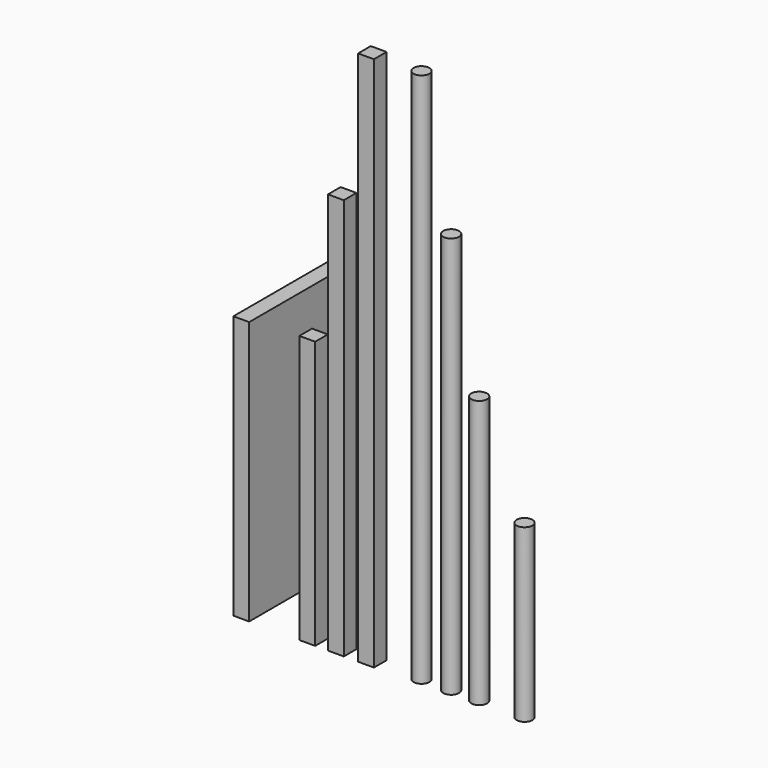
from build123d import *

# Parameters (mm, degrees)
F0_W     = 6
F0_H     = 6
F1_DEPTH = 101.6
F2_DEPTH = 152.4
F3_DEPTH = 203.2
F0_R     = 3
F4_DEPTH = 203.2
F5_DEPTH = 152.4
F6_DEPTH = 101.6
F7_DEPTH = 65
F0_H_2   = 45
F8_DEPTH = 100


with BuildPart() as f1:
    # F0 (on Top) → F1 (new body)
    with BuildSketch(Plane.XY):
        with Locations((-33.147974, 3)):
            Rectangle(F0_W, F0_H)
    extrude(amount=F1_DEPTH)


with BuildPart() as f2:
    # F0 (on Top) → F2 (new body)
    with BuildSketch(Plane.XY):
        with Locations((-22.295299, 3)):
            Rectangle(F0_W, F0_H)
    extrude(amount=F2_DEPTH)


with BuildPart() as f3:
    # F0 (on Top) → F3 (new body)
    with BuildSketch(Plane.XY):
        with Locations((-10.870221, 3)):
            Rectangle(F0_W, F0_H)
    extrude(amount=F3_DEPTH)


with BuildPart() as f4:
    # F0 (on Top) → F4 (new body)
    with BuildSketch(Plane.XY):
        with Locations((7.769686, 3)):
            Circle(F0_R)
    extrude(amount=F4_DEPTH)


with BuildPart() as f5:
    # F0 (on Top) → F5 (new body)
    with BuildSketch(Plane.XY):
        with Locations((19.036578, 3)):
            Circle(F0_R)
    extrude(amount=F5_DEPTH)


with BuildPart() as f6:
    # F0 (on Top) → F6 (new body)
    with BuildSketch(Plane.XY):
        with Locations((29.671375, 3)):
            Circle(F0_R)
    extrude(amount=F6_DEPTH)


with BuildPart() as f7:
    # F0 (on Top) → F7 (new body)
    with BuildSketch(Plane.XY):
        with Locations((46.876561, 3)):
            Circle(F0_R)
    extrude(amount=F7_DEPTH)


with BuildPart() as f8:
    # F0 (on Top) → F8 (new body)
    with BuildSketch(Plane.XY):
        with Locations((-58.198242, 22.5)):
            Rectangle(F0_W, F0_H_2)
    extrude(amount=F8_DEPTH)


solid = Compound([f1.part, f2.part, f3.part, f4.part, f5.part, f6.part, f7.part, f8.part])
